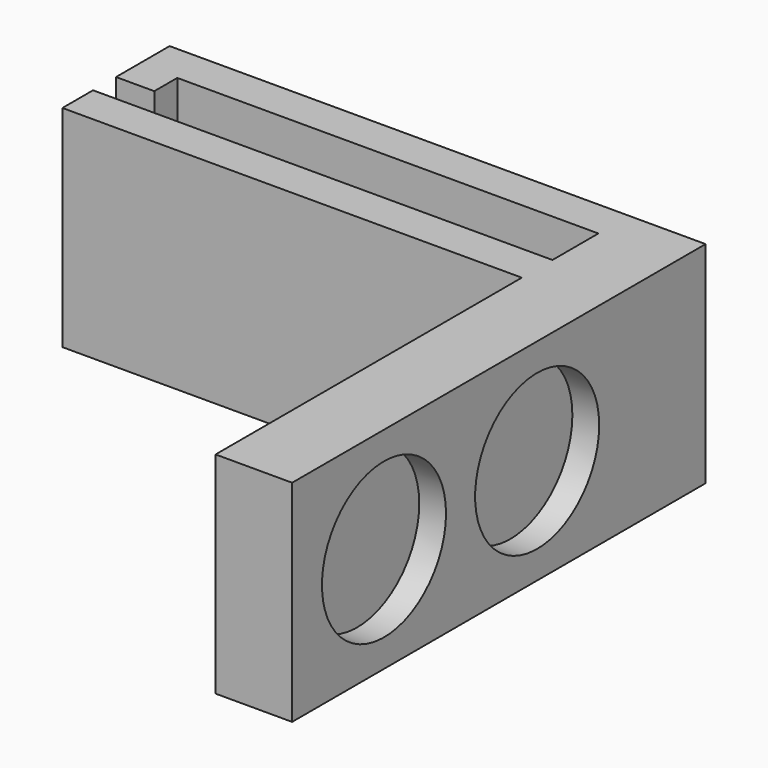
from build123d import *

# Parameters (mm, degrees)
F1_DEPTH = 11
F2_R     = 4.05
F3_DEPTH = 1.4


with BuildPart() as f1:
    # F0 (on Top) → F1 (new body)
    with BuildSketch(Plane.XY):
        Polygon((0, -27), (0, 0), (-28, 0), (-28, -3.5), (-26, -3.5), (-26, -2), (-4, -2), (-4, -5), (-28, -5), (-28, -7), (-4, -7), (-4, -27), align=None)
    extrude(amount=F1_DEPTH)

    # F2 (on face) → F3 (cut)
    with BuildSketch(Plane.YZ):
        with Locations((-21, 5.5)):
            Circle(F2_R)
        with Locations((-11, 5.5)):
            Circle(F2_R)
    extrude(amount=-F3_DEPTH, mode=Mode.SUBTRACT)


solid = f1.part
